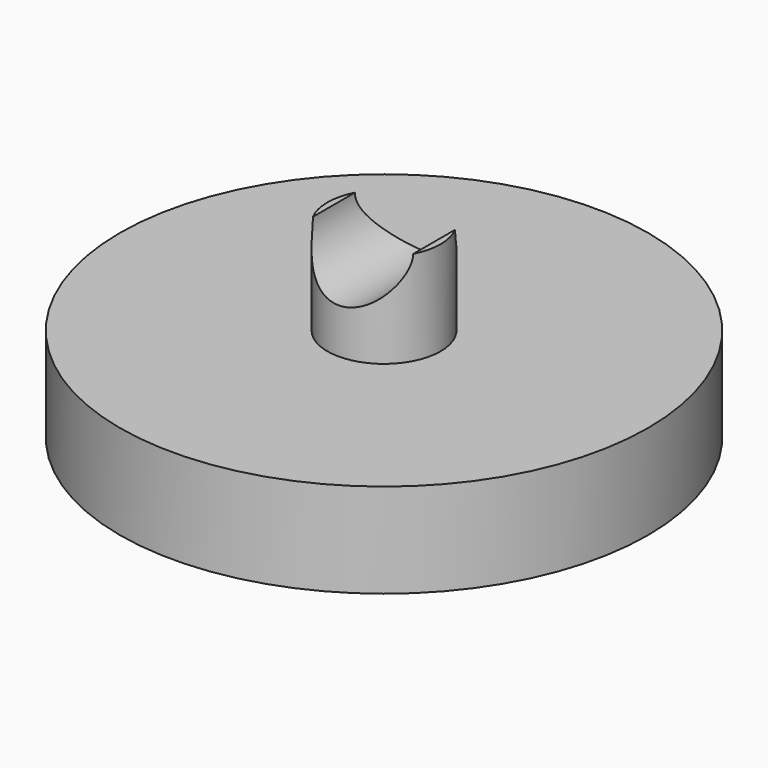
from build123d import *

# Parameters (mm, degrees)
F2_R     = 1.33
F3_DEPTH = 12.5


with BuildPart() as f1:
    # F0 (on Front) → F1 (revolve)
    with BuildSketch(Plane.XZ):
        Polygon((7, -1.05), (7, 0), (1.5, 0), (1.5, 2.5), (0, 2.5), (0, 0), (0, -2.1), (6.2, -2.1), (6.2, -2.5), (7, -2.5), align=None)
    revolve(axis=Axis((0, 0, 1.25), (0, 0, 1)))

    # F2 (on Front) → F3 (cut, symmetric)
    with BuildSketch(Plane.XZ):
        with Locations((0, 2.523782)):
            Circle(F2_R)
    extrude(amount=F3_DEPTH, both=True, mode=Mode.SUBTRACT)


solid = f1.part
